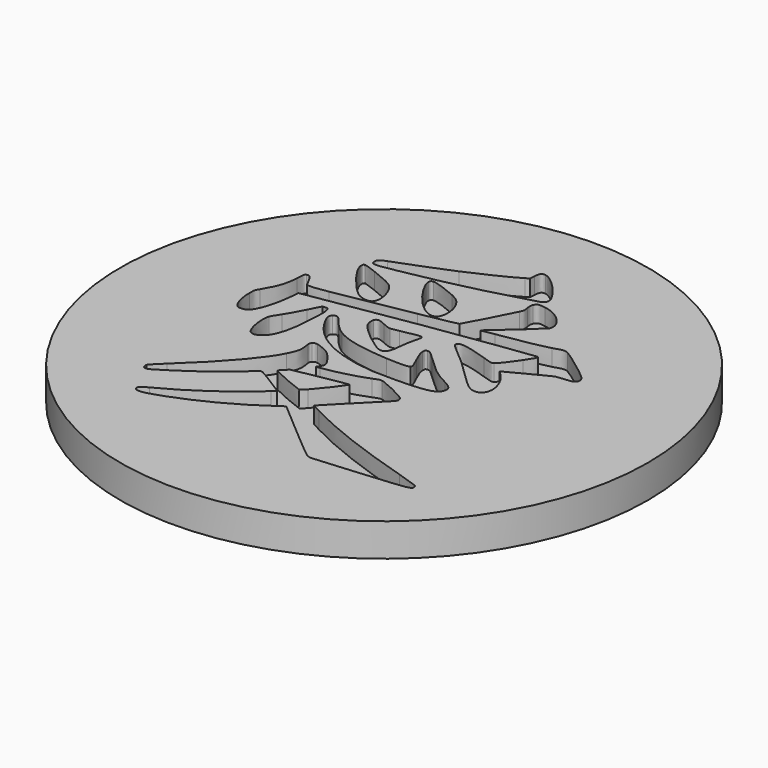
from build123d import *

# Parameters (mm, degrees)
SKETCH001_R  = 20
PAD_DEPTH    = 2.5
POCKET_DEPTH = 1.25


with BuildPart() as part:
    # Sketch001 (on DatumPlane) → Pad (new body)
    with BuildSketch(Plane.XY):
        Circle(SKETCH001_R)
    extrude(amount=-PAD_DEPTH)

    # Sketch (on DatumPlane) → Pocket (cut)
    with BuildSketch(Plane.XY):
        with BuildLine():
            add(Edge.make_bspline(
                [(3.685385, -11.883245), (3.584314, -11.831916), (2.477827, -10.909049), (1.226348, -9.832724)],
                knots=[0, 0, 0, 0, 1, 1, 1, 1], degree=3))
            add(Edge.make_bspline(
                [(1.226348, -9.832724), (-0.025661, -8.756399), (-1.091931, -7.841999), (-1.143261, -7.801783)],
                knots=[0, 0, 0, 0, 1, 1, 1, 1], degree=3))
            add(Edge.make_bspline(
                [(-1.143261, -7.801783), (-1.22634, -7.736166), (-1.263381, -7.74622), (-1.460231, -7.887508)],
                knots=[0, 0, 0, 0, 1, 1, 1, 1], degree=3))
            add(Edge.make_bspline(
                [(-1.460231, -7.887508), (-3.465773, -9.321549), (-5.511002, -10.412162), (-7.724506, -11.226549)],
                knots=[0, 0, 0, 0, 1, 1, 1, 1], degree=3))
            add(Edge.make_bspline(
                [(-7.724506, -11.226549), (-8.90349, -11.660466), (-9.466523, -11.739841), (-9.599873, -11.491133)],
                knots=[0, 0, 0, 0, 1, 1, 1, 1], degree=3))
            add(Edge.make_bspline(
                [(-9.599873, -11.491133), (-9.706236, -11.291637), (-9.581352, -11.150878), (-9.071236, -10.894762)],
                knots=[0, 0, 0, 0, 1, 1, 1, 1], degree=3))
            add(Edge.make_bspline(
                [(-9.071236, -10.894762), (-7.124961, -9.917391), (-4.740536, -8.260041), (-3.158327, -6.784724)],
                knots=[0, 0, 0, 0, 1, 1, 1, 1], degree=3))
            add(Edge.make_bspline(
                [(-3.158327, -6.784724), (-2.886336, -6.531253)],
                knots=[0, 0, 7.025931, 7.025931], degree=1))
            add(Edge.make_bspline(
                [(-2.886336, -6.531253), (-3.277919, -6.26032)],
                knots=[0, 0, 8.998578, 8.998578], degree=1))
            add(Edge.make_bspline(
                [(-3.277919, -6.26032), (-3.493819, -6.111095), (-4.006052, -5.788833), (-4.417215, -5.544358)],
                knots=[0, 0, 0, 0, 1, 1, 1, 1], degree=3))
            add(Edge.make_bspline(
                [(-4.417215, -5.544358), (-5.149052, -5.107795), (-5.166515, -5.100916), (-5.28399, -5.190874)],
                knots=[0, 0, 0, 0, 1, 1, 1, 1], degree=3))
            add(Edge.make_bspline(
                [(-5.28399, -5.190874), (-5.349606, -5.241145), (-5.721611, -5.557058), (-6.110019, -5.893078)],
                knots=[0, 0, 0, 0, 1, 1, 1, 1], degree=3))
            add(Edge.make_bspline(
                [(-6.110019, -5.893078), (-7.412827, -7.018616), (-7.971098, -7.434012), (-9.701473, -8.564312)],
                knots=[0, 0, 0, 0, 1, 1, 1, 1], degree=3))
            add(Edge.make_bspline(
                [(-9.701473, -8.564312), (-10.368752, -8.999816), (-10.591002, -9.118878), (-10.735465, -9.118878)],
                knots=[0, 0, 0, 0, 1, 1, 1, 1], degree=3))
            add(Edge.make_bspline(
                [(-10.735465, -9.118878), (-10.879398, -9.118878), (-10.932844, -9.090833), (-10.978352, -8.99082)],
                knots=[0, 0, 0, 0, 1, 1, 1, 1], degree=3))
            add(Edge.make_bspline(
                [(-10.978352, -8.99082), (-11.010631, -8.919912), (-11.022802, -8.80667), (-11.005869, -8.738937)],
                knots=[0, 0, 0, 0, 1, 1, 1, 1], degree=3))
            add(Edge.make_bspline(
                [(-11.005869, -8.738937), (-10.988936, -8.670674), (-10.610581, -8.278033), (-10.165552, -7.865812)],
                knots=[0, 0, 0, 0, 1, 1, 1, 1], degree=3))
            add(Edge.make_bspline(
                [(-10.165552, -7.865812), (-7.794356, -5.670828), (-6.093615, -3.706033), (-5.454911, -2.42492)],
                knots=[0, 0, 0, 0, 1, 1, 1, 1], degree=3))
            add(Edge.make_bspline(
                [(-5.454911, -2.42492), (-5.088727, -1.690437), (-5.056977, -1.495703), (-5.180802, -0.750108)],
                knots=[0, 0, 0, 0, 1, 1, 1, 1], degree=3))
            add(Edge.make_bspline(
                [(-5.180802, -0.750108), (-5.206731, -0.595591), (-5.190327, -0.534208), (-5.098252, -0.442133)],
                knots=[0, 0, 0, 0, 1, 1, 1, 1], degree=3))
            add(Edge.make_bspline(
                [(-5.098252, -0.442133), (-5.001944, -0.345824), (-4.946381, -0.332595), (-4.762231, -0.361699)],
                knots=[0, 0, 0, 0, 1, 1, 1, 1], degree=3))
            add(Edge.make_bspline(
                [(-4.762231, -0.361699), (-4.497648, -0.402974), (-3.924031, -0.659091), (-3.683261, -0.842712)],
                knots=[0, 0, 0, 0, 1, 1, 1, 1], degree=3))
            add(Edge.make_bspline(
                [(-3.683261, -0.842712), (-3.449898, -1.020512), (-2.948248, -1.648103), (-2.848765, -1.885699)],
                knots=[0, 0, 0, 0, 1, 1, 1, 1], degree=3))
            add(Edge.make_bspline(
                [(-2.848765, -1.885699), (-2.738698, -2.149753), (-2.747165, -2.246591), (-2.90274, -2.47572)],
                knots=[0, 0, 0, 0, 1, 1, 1, 1], degree=3))
            add(Edge.make_bspline(
                [(-2.90274, -2.47572), (-3.037148, -2.673628)],
                knots=[0, 0, 4.520973, 4.520973], degree=1))
            add(Edge.make_bspline(
                [(-3.037148, -2.673628), (-2.757219, -2.637116)],
                knots=[0, 0, 5.33481, 5.33481], degree=1))
            add(Edge.make_bspline(
                [(-2.757219, -2.637116), (-1.794136, -2.511703), (-0.177531, -2.089958), (0.523614, -1.781983)],
                knots=[0, 0, 0, 0, 1, 1, 1, 1], degree=3))
            add(Edge.make_bspline(
                [(0.523614, -1.781983), (0.846406, -1.640166), (1.000923, -1.599949), (1.146444, -1.618999)],
                knots=[0, 0, 0, 0, 1, 1, 1, 1], degree=3))
            add(Edge.make_bspline(
                [(1.146444, -1.618999), (1.393564, -1.652337), (2.776277, -2.29157), (3.158335, -2.548745)],
                knots=[0, 0, 0, 0, 1, 1, 1, 1], degree=3))
            add(Edge.make_bspline(
                [(3.158335, -2.548745), (3.39646, -2.709612), (3.452023, -2.775758), (3.465781, -2.914928)],
                knots=[0, 0, 0, 0, 1, 1, 1, 1], degree=3))
            add(Edge.make_bspline(
                [(3.465781, -2.914928), (3.481127, -3.07262), (3.411806, -3.15517), (2.535506, -4.02512)],
                knots=[0, 0, 0, 0, 1, 1, 1, 1], degree=3))
            add(Edge.make_bspline(
                [(2.535506, -4.02512), (2.015335, -4.542116), (1.228994, -5.337453), (0.788727, -5.792008)],
                knots=[0, 0, 0, 0, 1, 1, 1, 1], degree=3))
            add(Edge.make_bspline(
                [(0.788727, -5.792008), (-0.011902, -6.619095)],
                knots=[0, 0, 21.753478, 21.753478], degree=1))
            add(Edge.make_bspline(
                [(-0.011902, -6.619095), (0.633681, -6.964641)],
                knots=[0, 0, 13.837662, 13.837662], degree=1))
            add(Edge.make_bspline(
                [(0.633681, -6.964641), (2.709073, -8.073774), (5.693573, -9.221537), (9.477114, -10.365066)],
                knots=[0, 0, 0, 0, 1, 1, 1, 1], degree=3))
            add(Edge.make_bspline(
                [(9.477114, -10.365066), (10.289385, -10.610599), (10.99741, -10.850841), (11.051385, -10.899524)],
                knots=[0, 0, 0, 0, 1, 1, 1, 1], degree=3))
            add(Edge.make_bspline(
                [(11.051385, -10.899524), (11.104831, -10.947678), (11.148752, -11.042928), (11.148752, -11.110133)],
                knots=[0, 0, 0, 0, 1, 1, 1, 1], degree=3))
            add(Edge.make_bspline(
                [(11.148752, -11.110133), (11.148752, -11.375245), (11.033923, -11.393766), (7.550419, -11.693274)],
                knots=[0, 0, 0, 0, 1, 1, 1, 1], degree=3))
            add(Edge.make_bspline(
                [(7.550419, -11.693274), (5.760248, -11.847262), (4.199735, -11.973733), (4.08226, -11.974791)],
                knots=[0, 0, 0, 0, 1, 1, 1, 1], degree=3))
            add(Edge.make_bspline(
                [(4.08226, -11.974791), (3.964785, -11.975849), (3.785927, -11.934574), (3.685385, -11.883245)],
                knots=[0, 0, 0, 0, 1, 1, 1, 1], degree=3))
        make_face()
        with BuildLine():
            add(Edge.make_bspline(
                [(-1.574531, -5.216274), (-0.841106, -4.388658), (0.031489, -3.234016), (-0.055294, -3.206499)],
                knots=[0, 0, 0, 0, 1, 1, 1, 1], degree=3))
            add(Edge.make_bspline(
                [(-0.055294, -3.206499), (-0.078048, -3.19962), (-0.971811, -3.355724), (-2.042315, -3.553633)],
                knots=[0, 0, 0, 0, 1, 1, 1, 1], degree=3))
            add(Edge.make_bspline(
                [(-2.042315, -3.553633), (-3.98859, -3.913995)],
                knots=[0, 0, 37.40514, 37.40514], degree=1))
            add(Edge.make_bspline(
                [(-3.98859, -3.913995), (-4.251586, -4.172758)],
                knots=[0, 0, 6.972302, 6.972302], degree=1))
            add(Edge.make_bspline(
                [(-4.251586, -4.172758), (-4.396577, -4.315633), (-4.514581, -4.447395), (-4.514581, -4.466974)],
                knots=[0, 0, 0, 0, 1, 1, 1, 1], degree=3))
            add(Edge.make_bspline(
                [(-4.514581, -4.466974), (-4.514581, -4.546878), (-2.171961, -5.563937), (-1.972465, -5.570816)],
                knots=[0, 0, 0, 0, 1, 1, 1, 1], degree=3))
            add(Edge.make_bspline(
                [(-1.972465, -5.570816), (-1.927486, -5.572403), (-1.748098, -5.413124), (-1.574531, -5.216274)],
                knots=[0, 0, 0, 0, 1, 1, 1, 1], degree=3))
        make_face(mode=Mode.SUBTRACT)
        with BuildLine():
            add(Edge.make_bspline(
                [(-8.814061, -1.60577), (-9.161723, -1.33272), (-9.407256, 0.06428), (-9.205115, 0.617788)],
                knots=[0, 0, 0, 0, 1, 1, 1, 1], degree=3))
            add(Edge.make_bspline(
                [(-9.205115, 0.617788), (-9.168073, 0.719388), (-8.984452, 1.028951), (-8.797127, 1.304647)],
                knots=[0, 0, 0, 0, 1, 1, 1, 1], degree=3))
            add(Edge.make_bspline(
                [(-8.797127, 1.304647), (-8.610331, 1.580872), (-8.254731, 2.212167), (-8.007081, 2.706938)],
                knots=[0, 0, 0, 0, 1, 1, 1, 1], degree=3))
            add(Edge.make_bspline(
                [(-8.007081, 2.706938), (-7.55729, 3.60758)],
                knots=[0, 0, 19.024468, 19.024468], degree=1))
            add(Edge.make_bspline(
                [(-7.55729, 3.60758), (-7.357794, 3.623984)],
                knots=[0, 0, 3.782724, 3.782724], degree=1))
            add(Edge.make_bspline(
                [(-7.357794, 3.623984), (-7.170998, 3.63933), (-7.152477, 3.627159), (-7.072573, 3.438776)],
                knots=[0, 0, 0, 0, 1, 1, 1, 1], degree=3))
            add(Edge.make_bspline(
                [(-7.072573, 3.438776), (-7.000077, 3.266797), (-6.992669, 3.092701), (-7.021773, 2.266672)],
                knots=[0, 0, 0, 0, 1, 1, 1, 1], degree=3))
            add(Edge.make_bspline(
                [(-7.021773, 2.266672), (-7.10009, 0.052109), (-7.459923, -1.181378), (-8.144136, -1.583545)],
                knots=[0, 0, 0, 0, 1, 1, 1, 1], degree=3))
            add(Edge.make_bspline(
                [(-8.144136, -1.583545), (-8.407131, -1.738062), (-8.636261, -1.745999), (-8.814061, -1.60577)],
                knots=[0, 0, 0, 0, 1, 1, 1, 1], degree=3))
        make_face()
        with BuildLine():
            add(Edge.make_bspline(
                [(-0.122498, -1.022628), (-3.253577, -0.738995), (-5.304098, 0.364317), (-6.281469, 2.290484)],
                knots=[0, 0, 0, 0, 1, 1, 1, 1], degree=3))
            add(Edge.make_bspline(
                [(-6.281469, 2.290484), (-6.498427, 2.718051), (-6.519065, 2.899555), (-6.366665, 3.051955)],
                knots=[0, 0, 0, 0, 1, 1, 1, 1], degree=3))
            add(Edge.make_bspline(
                [(-6.366665, 3.051955), (-6.162406, 3.256213), (-5.974552, 3.177897), (-5.665519, 2.760913)],
                knots=[0, 0, 0, 0, 1, 1, 1, 1], degree=3))
            add(Edge.make_bspline(
                [(-5.665519, 2.760913), (-5.384002, 2.380972), (-4.895052, 1.908955), (-4.570144, 1.704167)],
                knots=[0, 0, 0, 0, 1, 1, 1, 1], degree=3))
            add(Edge.make_bspline(
                [(-4.570144, 1.704167), (-3.757344, 1.190876), (-2.450302, 0.895072), (-0.448994, 0.770188)],
                knots=[0, 0, 0, 0, 1, 1, 1, 1], degree=3))
            add(Edge.make_bspline(
                [(-0.448994, 0.770188), (0.65961, 0.701397), (1.224231, 0.72468), (1.344352, 0.844801)],
                knots=[0, 0, 0, 0, 1, 1, 1, 1], degree=3))
            add(Edge.make_bspline(
                [(1.344352, 0.844801), (1.421081, 0.922059), (1.397269, 0.996672), (1.067598, 1.712634)],
                knots=[0, 0, 0, 0, 1, 1, 1, 1], degree=3))
            add(Edge.make_bspline(
                [(1.067598, 1.712634), (0.782377, 2.332288), (0.705648, 2.551363), (0.701944, 2.760913)],
                knots=[0, 0, 0, 0, 1, 1, 1, 1], degree=3))
            add(Edge.make_bspline(
                [(0.701944, 2.760913), (0.69771, 3.022851), (0.699298, 3.025497), (0.873394, 3.04243)],
                knots=[0, 0, 0, 0, 1, 1, 1, 1], degree=3))
            add(Edge.make_bspline(
                [(0.873394, 3.04243), (1.033202, 3.057247), (1.099348, 3.01068), (1.587769, 2.537076)],
                knots=[0, 0, 0, 0, 1, 1, 1, 1], degree=3))
            add(Edge.make_bspline(
                [(1.587769, 2.537076), (2.804852, 1.357034), (3.228185, 1.032126), (4.143114, 0.573867)],
                knots=[0, 0, 0, 0, 1, 1, 1, 1], degree=3))
            add(Edge.make_bspline(
                [(4.143114, 0.573867), (4.379123, 0.455863), (4.637885, 0.281238), (4.71726, 0.186517)],
                knots=[0, 0, 0, 0, 1, 1, 1, 1], degree=3))
            add(Edge.make_bspline(
                [(4.71726, 0.186517), (4.842144, 0.038351), (4.859077, -0.019858), (4.835794, -0.225174)],
                knots=[0, 0, 0, 0, 1, 1, 1, 1], degree=3))
            add(Edge.make_bspline(
                [(4.835794, -0.225174), (4.76806, -0.826308), (4.081731, -1.009399), (1.756044, -1.046441)],
                knots=[0, 0, 0, 0, 1, 1, 1, 1], degree=3))
            add(Edge.make_bspline(
                [(1.756044, -1.046441), (0.999335, -1.058612), (0.153727, -1.048028), (-0.122498, -1.022628)],
                knots=[0, 0, 0, 0, 1, 1, 1, 1], degree=3))
        make_face()
        with BuildLine():
            add(Edge.make_bspline(
                [(-11.537152, 0.525184), (-11.811261, 0.824692), (-11.99594, 1.506788), (-11.999644, 2.235451)],
                knots=[0, 0, 0, 0, 1, 1, 1, 1], degree=3))
            add(Edge.make_bspline(
                [(-11.999644, 2.235451), (-12.00229, 2.696884), (-11.994881, 2.727576), (-11.810202, 3.029201)],
                knots=[0, 0, 0, 0, 1, 1, 1, 1], degree=3))
            add(Edge.make_bspline(
                [(-11.810202, 3.029201), (-11.238702, 3.961063), (-11.036031, 4.571192), (-10.986819, 5.504113)],
                knots=[0, 0, 0, 0, 1, 1, 1, 1], degree=3))
            add(Edge.make_bspline(
                [(-10.986819, 5.504113), (-10.956127, 6.091488), (-10.946073, 6.134351), (-10.832302, 6.186209)],
                knots=[0, 0, 0, 0, 1, 1, 1, 1], degree=3))
            add(Edge.make_bspline(
                [(-10.832302, 6.186209), (-10.639686, 6.274051), (-10.480936, 6.127472), (-10.222702, 5.621059)],
                knots=[0, 0, 0, 0, 1, 1, 1, 1], degree=3))
            add(Edge.make_bspline(
                [(-10.222702, 5.621059), (-9.991456, 5.169151)],
                knots=[0, 0, 9.593149, 9.593149], degree=1))
            add(Edge.make_bspline(
                [(-9.991456, 5.169151), (-9.62104, 5.169151)],
                knots=[0, 0, 7, 7], degree=1))
            add(Edge.make_bspline(
                [(-9.62104, 5.169151), (-9.417311, 5.169151), (-8.881794, 5.241117), (-8.430415, 5.328959)],
                knots=[0, 0, 0, 0, 1, 1, 1, 1], degree=3))
            add(Edge.make_bspline(
                [(-8.430415, 5.328959), (-7.078923, 5.591426), (-5.431098, 5.890405), (-2.585769, 6.388351)],
                knots=[0, 0, 0, 0, 1, 1, 1, 1], degree=3))
            add(Edge.make_bspline(
                [(-2.585769, 6.388351), (-1.086111, 6.651347), (0.13891, 6.89053), (0.173835, 6.927572)],
                knots=[0, 0, 0, 0, 1, 1, 1, 1], degree=3))
            add(Edge.make_bspline(
                [(0.173835, 6.927572), (0.241569, 6.99848), (1.75181, 9.894609), (1.972473, 10.37668)],
                knots=[0, 0, 0, 0, 1, 1, 1, 1], degree=3))
            add(Edge.make_bspline(
                [(1.972473, 10.37668), (2.095239, 10.645497), (2.100002, 10.686772), (2.044969, 11.004272)],
                knots=[0, 0, 0, 0, 1, 1, 1, 1], degree=3))
            add(Edge.make_bspline(
                [(2.044969, 11.004272), (1.996285, 11.285259), (1.99946, 11.376805), (2.065606, 11.535026)],
                knots=[0, 0, 0, 0, 1, 1, 1, 1], degree=3))
            add(Edge.make_bspline(
                [(2.065606, 11.535026), (2.166148, 11.775267), (2.292619, 11.810192), (2.796914, 11.733992)],
                knots=[0, 0, 0, 0, 1, 1, 1, 1], degree=3))
            add(Edge.make_bspline(
                [(2.796914, 11.733992), (3.309677, 11.656734), (3.873239, 11.378922), (4.237306, 11.023322)],
                knots=[0, 0, 0, 0, 1, 1, 1, 1], degree=3))
            add(Edge.make_bspline(
                [(4.237306, 11.023322), (4.671223, 10.599988), (4.818331, 10.233276), (4.712498, 9.838517)],
                knots=[0, 0, 0, 0, 1, 1, 1, 1], degree=3))
            add(Edge.make_bspline(
                [(4.712498, 9.838517), (4.687098, 9.744326), (2.965719, 8.172701), (1.806844, 7.185805)],
                knots=[0, 0, 0, 0, 1, 1, 1, 1], degree=3))
            add(Edge.make_bspline(
                [(1.806844, 7.185805), (1.691485, 7.08738), (1.640156, 7.021763), (1.692544, 7.039755)],
                knots=[0, 0, 0, 0, 1, 1, 1, 1], degree=3))
            add(Edge.make_bspline(
                [(1.692544, 7.039755), (1.744931, 7.057747), (2.173556, 7.132888), (2.645044, 7.207501)],
                knots=[0, 0, 0, 0, 1, 1, 1, 1], degree=3))
            add(Edge.make_bspline(
                [(2.645044, 7.207501), (4.610369, 7.516534), (5.96186, 7.773709), (6.38731, 7.91923)],
                knots=[0, 0, 0, 0, 1, 1, 1, 1], degree=3))
            add(Edge.make_bspline(
                [(6.38731, 7.91923), (7.022839, 8.137247), (7.230802, 8.162647), (7.449348, 8.050992)],
                knots=[0, 0, 0, 0, 1, 1, 1, 1], degree=3))
            add(Edge.make_bspline(
                [(7.449348, 8.050992), (7.93671, 7.802284), (9.959714, 6.272463), (10.143864, 6.013701)],
                knots=[0, 0, 0, 0, 1, 1, 1, 1], degree=3))
            add(Edge.make_bspline(
                [(10.143864, 6.013701), (10.312139, 5.777692), (10.323781, 5.623176), (10.186198, 5.463367)],
                knots=[0, 0, 0, 0, 1, 1, 1, 1], degree=3))
            add(Edge.make_bspline(
                [(10.186198, 5.463367), (10.072427, 5.331076), (10.017923, 5.316259), (9.481348, 5.269692)],
                knots=[0, 0, 0, 0, 1, 1, 1, 1], degree=3))
            add(Edge.make_bspline(
                [(9.481348, 5.269692), (9.161202, 5.242176), (8.852698, 5.204605), (8.795548, 5.186613)],
                knots=[0, 0, 0, 0, 1, 1, 1, 1], degree=3))
            add(Edge.make_bspline(
                [(8.795548, 5.186613), (8.738398, 5.168622), (8.047835, 4.817784), (7.260964, 4.407151)],
                knots=[0, 0, 0, 0, 1, 1, 1, 1], degree=3))
            add(Edge.make_bspline(
                [(7.260964, 4.407151), (5.830627, 3.660497)],
                knots=[0, 0, 30.491195, 30.491195], degree=1))
            add(Edge.make_bspline(
                [(5.830627, 3.660497), (6.154477, 3.32818)],
                knots=[0, 0, 8.768854, 8.768854], degree=1))
            add(Edge.make_bspline(
                [(6.154477, 3.32818), (7.218102, 2.238097), (7.236094, 0.633663), (6.183581, 0.741084)],
                knots=[0, 0, 0, 0, 1, 1, 1, 1], degree=3))
            add(Edge.make_bspline(
                [(6.183581, 0.741084), (5.839623, 0.776009), (5.461798, 1.064405), (4.50771, 2.021138)],
                knots=[0, 0, 0, 0, 1, 1, 1, 1], degree=3))
            add(Edge.make_bspline(
                [(4.50771, 2.021138), (3.614477, 2.916488), (2.943494, 3.528734), (2.155035, 4.166909)],
                knots=[0, 0, 0, 0, 1, 1, 1, 1], degree=3))
            add(Edge.make_bspline(
                [(2.155035, 4.166909), (1.664498, 4.564313), (1.569248, 4.695017), (1.676139, 4.824663)],
                knots=[0, 0, 0, 0, 1, 1, 1, 1], degree=3))
            add(Edge.make_bspline(
                [(1.676139, 4.824663), (1.859231, 5.044267), (2.446077, 4.945842), (4.009764, 4.432551)],
                knots=[0, 0, 0, 0, 1, 1, 1, 1], degree=3))
            add(Edge.make_bspline(
                [(4.009764, 4.432551), (4.775998, 4.181197), (4.783406, 4.179609), (4.916756, 4.276976)],
                knots=[0, 0, 0, 0, 1, 1, 1, 1], degree=3))
            add(Edge.make_bspline(
                [(4.916756, 4.276976), (5.109373, 4.417205), (5.572394, 4.999817), (6.006839, 5.648576)],
                knots=[0, 0, 0, 0, 1, 1, 1, 1], degree=3))
            add(Edge.make_bspline(
                [(6.006839, 5.648576), (6.437052, 6.290984), (6.52701, 6.481484), (6.419589, 6.52223)],
                knots=[0, 0, 0, 0, 1, 1, 1, 1], degree=3))
            add(Edge.make_bspline(
                [(6.419589, 6.52223), (6.338627, 6.553451), (1.941781, 5.931151), (-1.471873, 5.405688)],
                knots=[0, 0, 0, 0, 1, 1, 1, 1], degree=3))
            add(Edge.make_bspline(
                [(-1.471873, 5.405688), (-3.436669, 5.103534), (-9.093461, 4.178022), (-9.574473, 4.080126)],
                knots=[0, 0, 0, 0, 1, 1, 1, 1], degree=3))
            add(Edge.make_bspline(
                [(-9.574473, 4.080126), (-9.739044, 4.046788)],
                knots=[0, 0, 3.173169, 3.173169], degree=1))
            add(Edge.make_bspline(
                [(-9.739044, 4.046788), (-9.775556, 3.564188)],
                knots=[0, 0, 9.146065, 9.146065], degree=1))
            add(Edge.make_bspline(
                [(-9.775556, 3.564188), (-9.881919, 2.152901), (-10.331181, 0.780242), (-10.774623, 0.509838)],
                knots=[0, 0, 0, 0, 1, 1, 1, 1], degree=3))
            add(Edge.make_bspline(
                [(-10.774623, 0.509838), (-11.016981, 0.362201), (-11.395336, 0.369609), (-11.537152, 0.525184)],
                knots=[0, 0, 0, 0, 1, 1, 1, 1], degree=3))
        make_face()
        with BuildLine():
            add(Edge.make_bspline(
                [(-1.948123, 1.629555), (-2.823365, 2.188884), (-3.800206, 3.059892), (-4.003406, 3.461001)],
                knots=[0, 0, 0, 0, 1, 1, 1, 1], degree=3))
            add(Edge.make_bspline(
                [(-4.003406, 3.461001), (-4.113473, 3.678488), (-4.15369, 3.973234), (-4.094423, 4.128809)],
                knots=[0, 0, 0, 0, 1, 1, 1, 1], degree=3))
            add(Edge.make_bspline(
                [(-4.094423, 4.128809), (-4.004994, 4.364817), (-3.821373, 4.362172), (-3.305965, 4.116638)],
                knots=[0, 0, 0, 0, 1, 1, 1, 1], degree=3))
            add(Edge.make_bspline(
                [(-3.305965, 4.116638), (-3.053023, 3.996517), (-2.775211, 3.898622), (-2.688427, 3.899151)],
                knots=[0, 0, 0, 0, 1, 1, 1, 1], degree=3))
            add(Edge.make_bspline(
                [(-2.688427, 3.899151), (-2.601644, 3.89968), (-2.304252, 3.947834), (-2.027498, 4.006572)],
                knots=[0, 0, 0, 0, 1, 1, 1, 1], degree=3))
            add(Edge.make_bspline(
                [(-2.027498, 4.006572), (-0.646902, 4.300788), (-0.520961, 4.310313), (-0.481273, 4.123517)],
                knots=[0, 0, 0, 0, 1, 1, 1, 1], degree=3))
            add(Edge.make_bspline(
                [(-0.481273, 4.123517), (-0.470161, 4.072188), (-0.516198, 3.828242), (-0.583402, 3.581122)],
                knots=[0, 0, 0, 0, 1, 1, 1, 1], degree=3))
            add(Edge.make_bspline(
                [(-0.583402, 3.581122), (-0.650077, 3.333472), (-0.728394, 2.885267), (-0.756969, 2.584701)],
                knots=[0, 0, 0, 0, 1, 1, 1, 1], degree=3))
            add(Edge.make_bspline(
                [(-0.756969, 2.584701), (-0.822056, 1.900488), (-0.88979, 1.644901), (-1.050127, 1.484563)],
                knots=[0, 0, 0, 0, 1, 1, 1, 1], degree=3))
            add(Edge.make_bspline(
                [(-1.050127, 1.484563), (-1.251211, 1.28348), (-1.460761, 1.317347), (-1.948123, 1.629555)],
                knots=[0, 0, 0, 0, 1, 1, 1, 1], degree=3))
        make_face()
        with BuildLine():
            add(Edge.make_bspline(
                [(-6.551873, 5.987242), (-6.816456, 6.094663), (-6.962506, 6.212138), (-7.424998, 6.690505)],
                knots=[0, 0, 0, 0, 1, 1, 1, 1], degree=3))
            add(Edge.make_bspline(
                [(-7.424998, 6.690505), (-8.301298, 7.596438), (-9.027844, 8.686522), (-9.035252, 9.106151)],
                knots=[0, 0, 0, 0, 1, 1, 1, 1], degree=3))
            add(Edge.make_bspline(
                [(-9.035252, 9.106151), (-9.038427, 9.293476), (-9.023081, 9.324697), (-8.91619, 9.340042)],
                knots=[0, 0, 0, 0, 1, 1, 1, 1], degree=3))
            add(Edge.make_bspline(
                [(-8.91619, 9.340042), (-8.848456, 9.349567), (-8.419831, 9.208809), (-7.96369, 9.027305)],
                knots=[0, 0, 0, 0, 1, 1, 1, 1], degree=3))
            add(Edge.make_bspline(
                [(-7.96369, 9.027305), (-6.642361, 8.501842), (-6.312161, 8.336213), (-6.082502, 8.080097)],
                knots=[0, 0, 0, 0, 1, 1, 1, 1], degree=3))
            add(Edge.make_bspline(
                [(-6.082502, 8.080097), (-5.532169, 7.46838), (-5.304627, 6.255001), (-5.681923, 5.949142)],
                knots=[0, 0, 0, 0, 1, 1, 1, 1], degree=3))
            add(Edge.make_bspline(
                [(-5.681923, 5.949142), (-5.842261, 5.819497), (-6.17299, 5.833784), (-6.551873, 5.987242)],
                knots=[0, 0, 0, 0, 1, 1, 1, 1], degree=3))
        make_face()
        with BuildLine():
            add(Edge.make_bspline(
                [(-2.048136, 6.778876), (-2.37569, 6.898997), (-2.782619, 7.206972), (-3.229236, 7.673167)],
                knots=[0, 0, 0, 0, 1, 1, 1, 1], degree=3))
            add(Edge.make_bspline(
                [(-3.229236, 7.673167), (-3.920856, 8.394951), (-4.641581, 9.592455), (-4.61089, 9.968692)],
                knots=[0, 0, 0, 0, 1, 1, 1, 1], degree=3))
            add(Edge.make_bspline(
                [(-4.61089, 9.968692), (-4.595015, 10.158134), (-4.583373, 10.169776), (-4.397106, 10.185651)],
                knots=[0, 0, 0, 0, 1, 1, 1, 1], degree=3))
            add(Edge.make_bspline(
                [(-4.397106, 10.185651), (-4.171152, 10.204172), (-3.234527, 9.887201), (-2.47729, 9.535305)],
                knots=[0, 0, 0, 0, 1, 1, 1, 1], degree=3))
            add(Edge.make_bspline(
                [(-2.47729, 9.535305), (-1.923252, 9.27813), (-1.675602, 9.037359), (-1.433773, 8.519834)],
                knots=[0, 0, 0, 0, 1, 1, 1, 1], degree=3))
            add(Edge.make_bspline(
                [(-1.433773, 8.519834), (-1.166015, 7.947276), (-1.168131, 7.086322), (-1.438006, 6.842376)],
                knots=[0, 0, 0, 0, 1, 1, 1, 1], degree=3))
            add(Edge.make_bspline(
                [(-1.438006, 6.842376), (-1.57559, 6.718022), (-1.813715, 6.693151), (-2.048136, 6.778876)],
                knots=[0, 0, 0, 0, 1, 1, 1, 1], degree=3))
        make_face()
        with BuildLine():
            add(Edge.make_bspline(
                [(-8.628852, 9.773959), (-8.720927, 9.811001), (-8.747915, 9.864447), (-8.747915, 10.00838)],
                knots=[0, 0, 0, 0, 1, 1, 1, 1], degree=3))
            add(Edge.make_bspline(
                [(-8.747915, 10.00838), (-8.747915, 10.257617), (-8.633086, 10.361334), (-8.16054, 10.539663)],
                knots=[0, 0, 0, 0, 1, 1, 1, 1], degree=3))
            add(Edge.make_bspline(
                [(-8.16054, 10.539663), (-6.504777, 11.162492), (-5.054861, 11.734522), (-4.06479, 12.15468)],
                knots=[0, 0, 0, 0, 1, 1, 1, 1], degree=3))
            add(Edge.make_bspline(
                [(-4.06479, 12.15468), (-2.842415, 12.673792), (-0.916248, 13.614122), (-0.466456, 13.910984)],
                knots=[0, 0, 0, 0, 1, 1, 1, 1], degree=3))
            add(Edge.make_bspline(
                [(-0.466456, 13.910984), (-0.201873, 14.085609)],
                knots=[0, 0, 5.990826, 5.990826], degree=1))
            add(Edge.make_bspline(
                [(-0.201873, 14.085609), (-0.175415, 14.473329)],
                knots=[0, 0, 7.34404, 7.34404], degree=1))
            add(Edge.make_bspline(
                [(-0.175415, 14.473329), (-0.144723, 14.927989), (-0.055823, 15.037051), (0.244744, 14.989902)],
                knots=[0, 0, 0, 0, 1, 1, 1, 1], degree=3))
            add(Edge.make_bspline(
                [(0.244744, 14.989902), (0.675485, 14.92238), (1.549669, 14.125297), (2.122227, 13.277572)],
                knots=[0, 0, 0, 0, 1, 1, 1, 1], degree=3))
            add(Edge.make_bspline(
                [(2.122227, 13.277572), (2.413798, 12.845772), (2.470948, 12.72618), (2.470419, 12.540972)],
                knots=[0, 0, 0, 0, 1, 1, 1, 1], degree=3))
            add(Edge.make_bspline(
                [(2.470419, 12.540972), (2.469889, 12.267922), (2.329131, 12.139863), (1.926964, 12.046201)],
                knots=[0, 0, 0, 0, 1, 1, 1, 1], degree=3))
            add(Edge.make_bspline(
                [(1.926964, 12.046201), (1.774564, 12.010747), (1.293023, 11.878984), (0.85646, 11.752513)],
                knots=[0, 0, 0, 0, 1, 1, 1, 1], degree=3))
            add(Edge.make_bspline(
                [(0.85646, 11.752513), (-1.545956, 11.059305), (-3.969011, 10.499976), (-6.910119, 9.959697)],
                knots=[0, 0, 0, 0, 1, 1, 1, 1], degree=3))
            add(Edge.make_bspline(
                [(-6.910119, 9.959697), (-8.266902, 9.710988), (-8.428827, 9.693526), (-8.628852, 9.773959)],
                knots=[0, 0, 0, 0, 1, 1, 1, 1], degree=3))
        make_face()
    extrude(amount=-POCKET_DEPTH, mode=Mode.SUBTRACT)


solid = part.part
